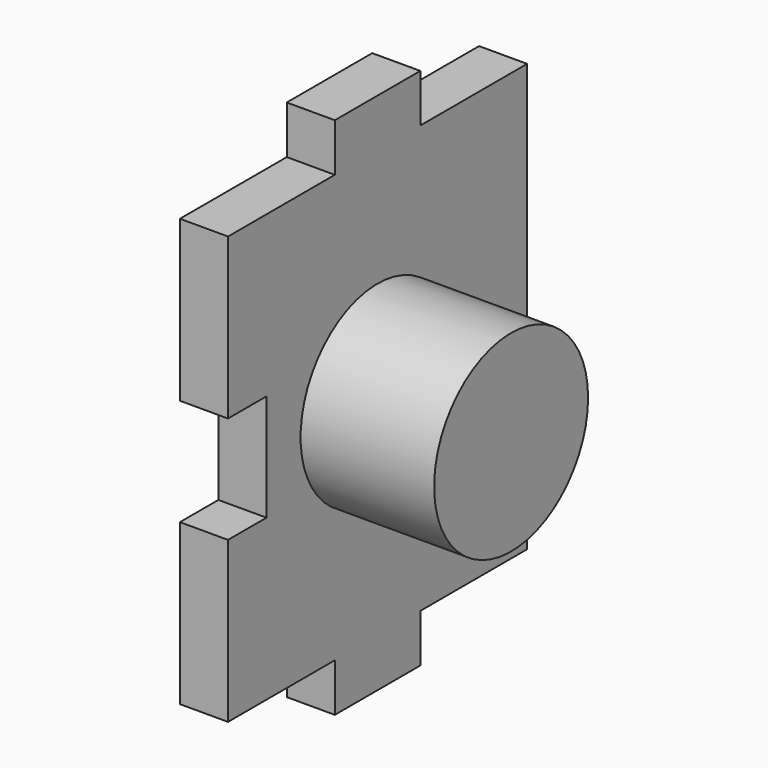
from build123d import *

# Parameters (mm, degrees)
F1_DEPTH = 9
F2_R     = 18.012252
F3_DEPTH = 25


with BuildPart() as f1:
    # F0 (on Right) → F1 (new body)
    with BuildSketch(Plane.YZ):
        Polygon((10, 40), (10, 49), (-10, 49), (-10, 40), (-35, 40), (-35, 10), (-26, 10), (-26, -10), (-35, -10), (-35, -40), (-10, -40), (-10, -49), (10, -49), (10, -40), (35, -40), (35, 40), align=None)
    extrude(amount=F1_DEPTH)

    # F2 (on face) → F3 (join)
    with BuildSketch(Plane.YZ.offset(9)):
        Circle(F2_R)
    extrude(amount=F3_DEPTH)


solid = f1.part
